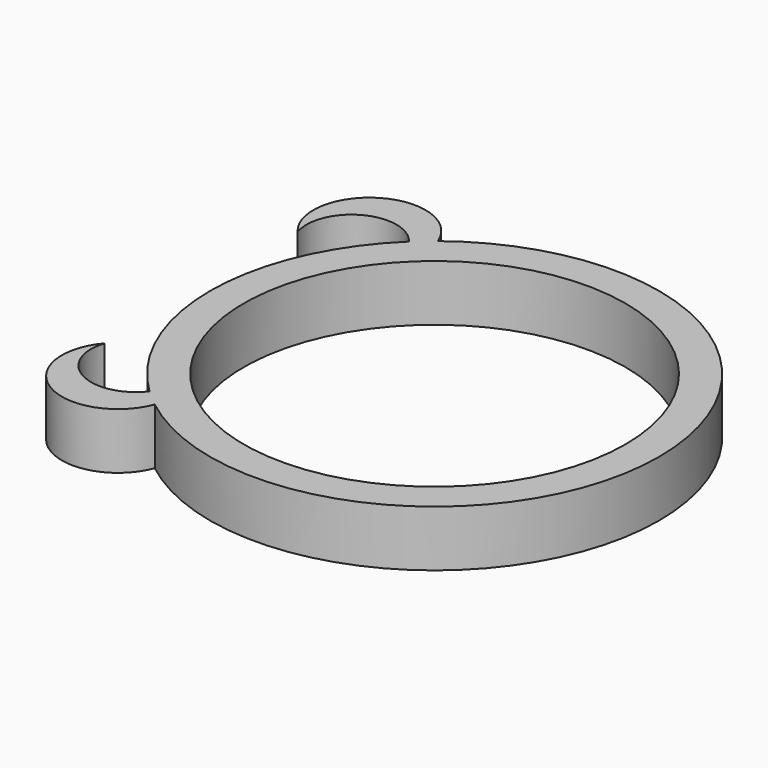
from build123d import *

# Parameters (mm, degrees)
CYLINDER003_R          = 4
CYLINDER003_DEPTH      = 5
CYLINDER002_R          = 5
CYLINDER002_DEPTH      = 5
CYLINDER001_R          = 17
CYLINDER001_DEPTH      = 5
CYLINDER_R             = 20
CYLINDER_DEPTH         = 5
CYLINDER005_R          = 4
CYLINDER005_DEPTH      = 5
CYLINDER004_R          = 5
CYLINDER004_DEPTH      = 5
CUT002_PLACEMENT_ANGLE = 180


with BuildPart() as cilindro003:
    # Cylinder003 → Cylinder003 (new body)
    with BuildSketch(Plane(origin=(0, 2, 0), x_dir=(1, 0, 0), z_dir=(0, 0, 1))):
        Circle(CYLINDER003_R)
    extrude(amount=CYLINDER003_DEPTH)


with BuildPart() as cut001:
    # Cylinder002 → Cylinder002 (new body)
    with BuildSketch(Plane.XY):
        Circle(CYLINDER002_R)
    extrude(amount=CYLINDER002_DEPTH)

    # Cut001: cut Cilindro003
    add(cilindro003.part, mode=Mode.SUBTRACT)


with BuildPart() as cut001_1:
    # Cut001 placement: moved
    add(cut001.part.moved(Location((-17, -14, 0))))


with BuildPart() as cilindro001:
    # Cylinder001 → Cylinder001 (new body)
    with BuildSketch(Plane.XY):
        Circle(CYLINDER001_R)
    extrude(amount=CYLINDER001_DEPTH)


with BuildPart() as fusion:
    # Cylinder → Cylinder (new body)
    with BuildSketch(Plane.XY):
        Circle(CYLINDER_R)
    extrude(amount=CYLINDER_DEPTH)

    # Cut: cut Cilindro001
    add(cilindro001.part, mode=Mode.SUBTRACT)

    # Fusion: union Cut001
    add(cut001_1.part)


with BuildPart() as cilindro005:
    # Cylinder005 → Cylinder005 (new body)
    with BuildSketch(Plane(origin=(0, 2, 0), x_dir=(1, 0, 0), z_dir=(0, 0, 1))):
        Circle(CYLINDER005_R)
    extrude(amount=CYLINDER005_DEPTH)


with BuildPart() as fusion001:
    # Cylinder004 → Cylinder004 (new body)
    with BuildSketch(Plane.XY):
        Circle(CYLINDER004_R)
    extrude(amount=CYLINDER004_DEPTH)

    # Cut002: cut Cilindro005
    add(cilindro005.part, mode=Mode.SUBTRACT)


with BuildPart() as fusion001_1:
    # Cut002 placement: moved
    add(fusion001.part.moved(Location((-17, 14, 0))).rotate(Axis((-17, 14, 0), (0, 0, -1)), CUT002_PLACEMENT_ANGLE))

    # Fusion001: union Fusion
    add(fusion.part)


solid = fusion001_1.part
